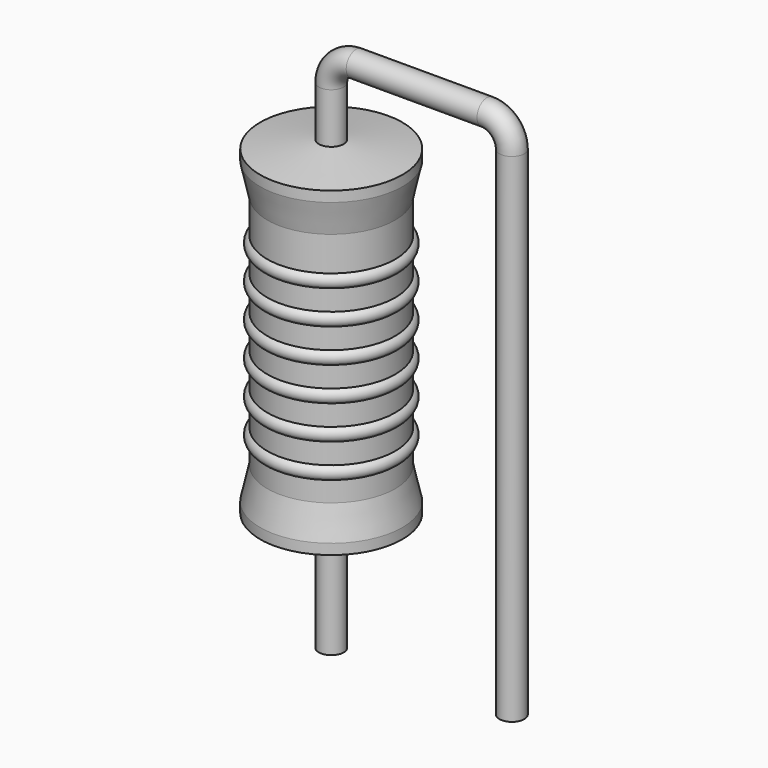
from build123d import *

# Parameters (mm, degrees)
SKETCH_R = 0.35


with BuildPart() as sweep_body:
    # Sweep: sweep along a path in Sketch001
    with BuildLine(Plane.XZ) as sweep_path:
        Line((0, -3), (0, 11))
        ThreePointArc((0, 11), (0.205022, 11.494972), (0.699992, 11.7))
        Line((0.699992, 11.7), (4.38, 11.7))
        ThreePointArc((4.38, 11.7), (4.874975, 11.494975), (5.08, 11))
        Line((5.08, 11), (5.08, -3))
    # Sketch → Sweep (sweep)
    with BuildSketch(Plane.XY.offset(-2)):
        Circle(SKETCH_R)
    sweep(path=sweep_path.line)


with BuildPart() as revolution:
    # Sketch002 → Revolution (revolve)
    with BuildSketch(Plane.XZ):
        Polygon((0, 0.1), (0, 9.6), (0.2625, 9.6), (2, 9.3625), (2, 9.07), (1.8, 8.175), (1.8, 1.525), (2, 0.63), (2, 0.3375), (0.2625, 0.1), align=None)
    revolve(axis=Axis((0, 0, 0), (0, 0, 1)))


with BuildPart() as revolution001:
    # Sketch003 → Revolution001 (revolve)
    with BuildSketch(Plane.XZ):
        with BuildLine():
            Line((1.6, 7.775), (1.6, 1.525))
            Line((1.6, 1.525), (1.72, 1.525))
            Line((1.72, 1.525), (1.72, 2.075))
            ThreePointArc((1.72, 2.075), (1.92, 2.275), (1.72, 2.475))
            Line((1.72, 2.475), (1.72, 3.025))
            ThreePointArc((1.72, 3.025), (1.92, 3.225), (1.72, 3.425))
            Line((1.72, 3.425), (1.72, 3.975))
            ThreePointArc((1.72, 3.975), (1.92, 4.175), (1.72, 4.375))
            Line((1.72, 4.375), (1.72, 4.925))
            ThreePointArc((1.72, 4.925), (1.92, 5.125), (1.72, 5.325))
            Line((1.72, 5.325), (1.72, 5.875))
            ThreePointArc((1.72, 5.875), (1.92, 6.075), (1.72, 6.275))
            Line((1.72, 6.275), (1.72, 6.825))
            ThreePointArc((1.72, 6.825), (1.92, 7.025), (1.72, 7.225))
            Line((1.72, 7.775), (1.72, 7.225))
            Line((1.6, 7.775), (1.72, 7.775))
        make_face()
    revolve(axis=Axis((0, 0, 0), (0, 0, 1)))


solid = Compound([sweep_body.part, revolution.part, revolution001.part])
